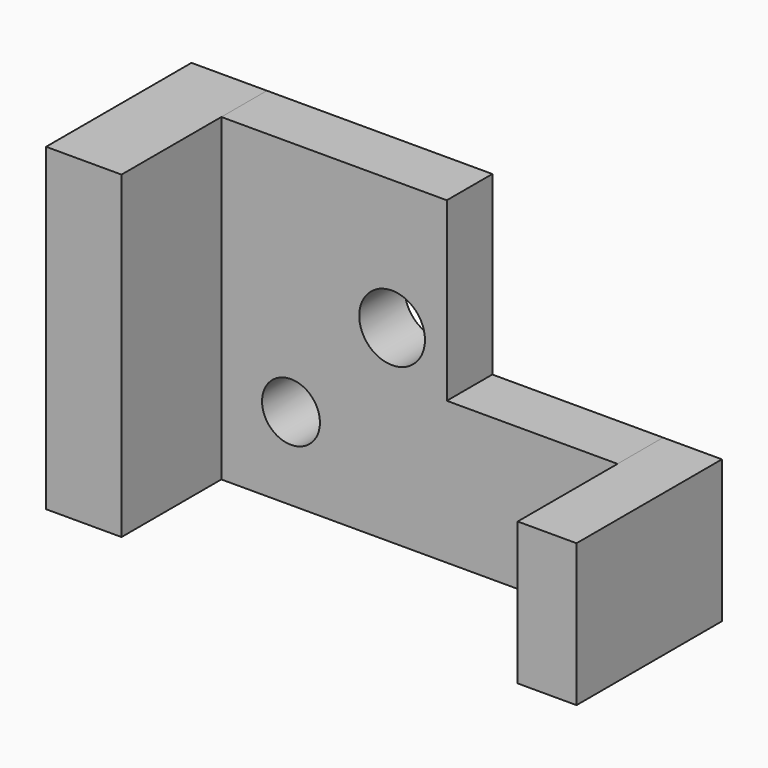
from build123d import *

# Parameters (mm, degrees)
F0_W     = 19.185532
F0_H     = 81.169568
F0_W_2   = 14.968924
F0_H_2   = 36.262769
F1_DEPTH = 46.228
F0_W_3   = 43.43099
F0_R     = 7.363977
F0_R_2   = 8.361744
F2_DEPTH = 14.478


with BuildPart() as f1:
    # F0 (on Front) → F1 (new body)
    with BuildSketch(Plane.XZ):
        with Locations((-49.33423, 4.322015)):
            Rectangle(F0_W, F0_H)
        with Locations((68.51976, -18.131384)):
            Rectangle(F0_W_2, F0_H_2)
    extrude(amount=F1_DEPTH)


with BuildPart() as f2:
    # F0 (on Front) → F2 (new body)
    with BuildSketch(Plane.XZ):
        with Locations((39.319803, -18.131384)):
            Rectangle(F0_W_3, F0_H_2)
        Polygon((17.604308, 44.906799), (-39.741464, 44.906799), (-39.741464, -36.262769), (17.604308, -36.262769), (17.604308, 0), align=None)
        with Locations((-22.031739, -15.390593)):
            Circle(F0_R, mode=Mode.SUBTRACT)
        with Locations((3.689525, 11.806482)):
            Circle(F0_R_2, mode=Mode.SUBTRACT)
    extrude(amount=F2_DEPTH)


solid = Compound([f1.part, f2.part])
